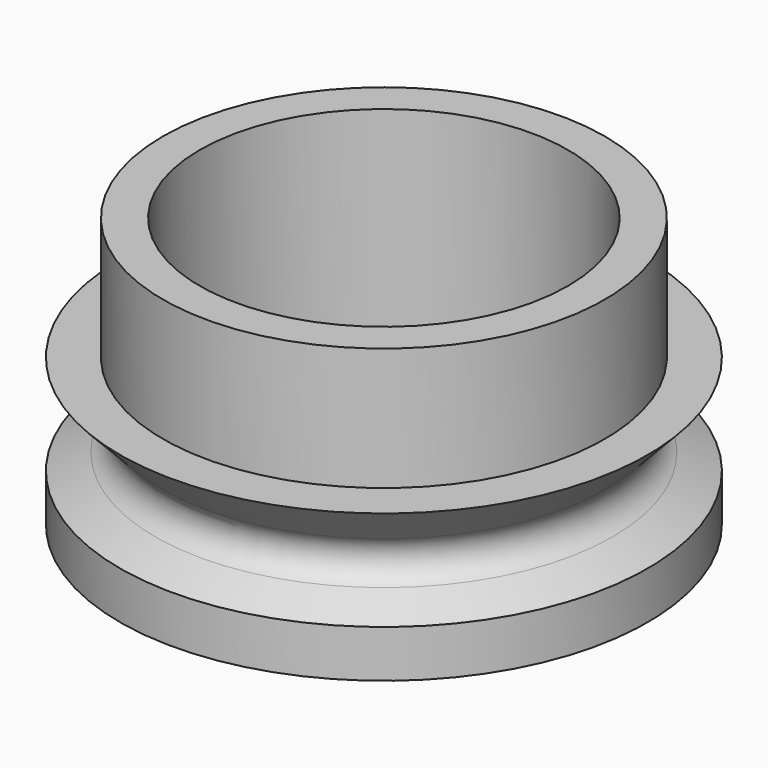
from build123d import *


with BuildPart() as f1:
    # F0 (on Front) → F1 (revolve)
    with BuildSketch(Plane.XZ):
        with BuildLine():
            Line((-10.75, 0), (-7.5, 0))
            Line((-7.5, 0), (-7.5, 11))
            Line((-7.5, 11), (-9, 11))
            Line((-9, 11), (-9, 6))
            Line((-9, 6), (-10.75, 6))
            Line((-10.75, 6), (-9.025862, 4.189655))
            ThreePointArc((-9.025862, 4.189655), (-8.766588, 3.318612), (-9.319553, 2.597384))
            Line((-9.319553, 2.597384), (-10.75, 1.930314))
            Line((-10.75, 1.930314), (-10.75, 0))
        make_face()
    revolve(axis=Axis((0, 0, 13.534962), (0, 0, 1)))


solid = f1.part
